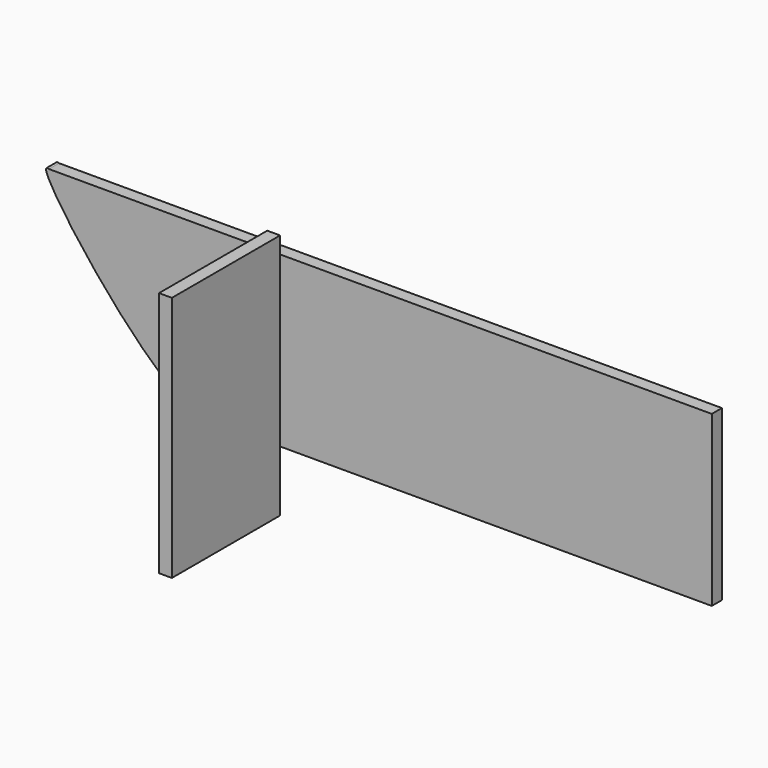
from build123d import *

# Parameters (mm, degrees)
F0_W     = 367.9767533813
F0_H     = 112.8609888256
F1_DEPTH = 9.525
F2_W     = 101.6
F2_H     = 185.2550778
F3_DEPTH = 9.652


with BuildPart() as f1:
    # F0 (on Front) → F1 (new body)
    with BuildSketch(Plane.XZ):
        with Locations((116.2313975556, 13.2681597024)):
            Rectangle(F0_W, F0_H)
        with BuildLine():
            Line((-67.756979135, -43.1623347104), (-67.756979135, 69.6986541152))
            Line((-67.756979135, 69.6986541152), (-184.6469789743, 69.6986541152))
            add(Edge.make_bspline(
                [(-184.6469789743, 69.6986541152), (-169.7059729536, 63.5757160212), (-75.0461899969, -38.240863824), (-67.756979135, -57.3013458848)],
                knots=[0, 0, 0, 0, 0.4151936097, 0.4151936097, 0.4151936097, 0.4151936097], degree=3))
            Line((-67.756979135, -57.3013458848), (-67.756979135, -43.1623347104))
        make_face()
        Polygon((313.243020865, 69.6986541152), (300.2197742462, 69.6986541152), (300.2197742462, -43.1623347104), (-67.756979135, -43.1623347104), (-67.756979135, -57.3013458848), (313.243020865, -57.3013458848), align=None)
        with BuildLine():
            add(Edge.make_bspline(
                [(-184.6469789743, 69.6986541152), (-169.7059729536, 63.5757160212), (-75.0461899969, -38.240863824), (-67.756979135, -57.3013458848)],
                knots=[0, 0, 0, 0, 0.4151936097, 0.4151936097, 0.4151936097, 0.4151936097], degree=3))
            add(Edge.make_bspline(
                [(-67.756979135, -57.3013458848), (-63.3702715526, -68.7721021527), (-127.1634956509, -25.4703757202), (-196.6999873394, 74.638068768), (-184.6469789743, 69.6986541152)],
                knots=[0.4151936097, 0.4151936097, 0.4151936097, 0.4151936097, 0.6650605693, 1, 1, 1, 1], degree=3))
        make_face()
    extrude(amount=F1_DEPTH)


with BuildPart() as f3:
    # F2 (on Right) → F3 (new body)
    with BuildSketch(Plane.YZ):
        with Locations((-86.2020223837, 6.9163870066)):
            Rectangle(F2_W, F2_H)
    extrude(amount=F3_DEPTH)


solid = Compound([f1.part, f3.part])
